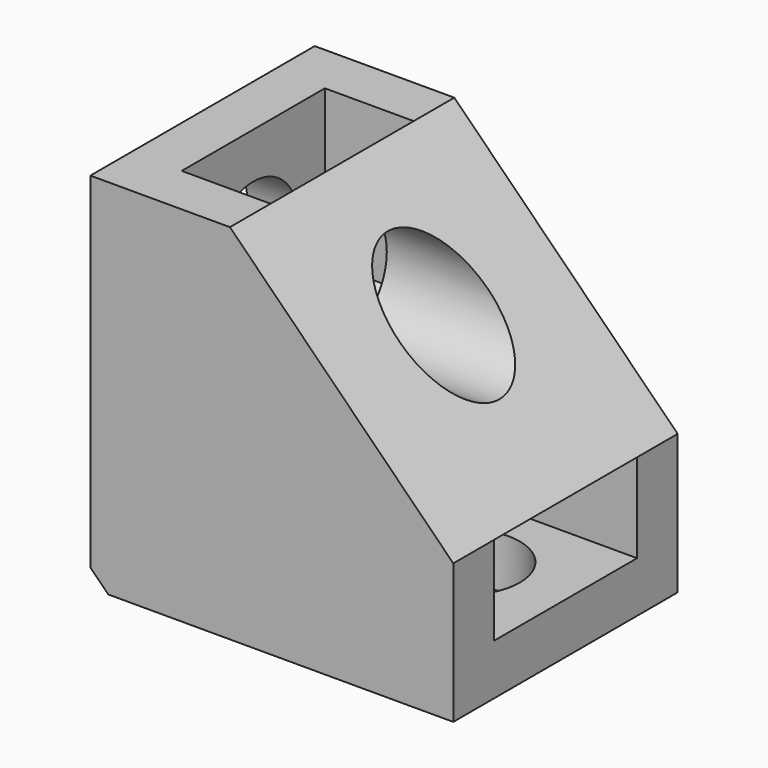
from build123d import *

# Parameters (mm, degrees)
PAD_DEPTH         = 1.75
PAD001_DEPTH      = 1.75
PAD002_DEPTH      = 5.525
SKETCH003_R       = 2.2
POCKET_DEPTH      = 2.001
POCKET_DEPTH_BACK = -12.301
SKETCH004_R       = 2.2
POCKET001_DEPTH   = 2.001


with BuildPart() as pad:
    # Sketch → Pad (new body, symmetric)
    with BuildSketch(Plane.XY):
        Polygon((2.03516, 3.525), (-2.03516, 3.525), (-4.070319, 0), (-2.03516, -3.525), (2.03516, -3.525), (4.070319, -3.525), (4.070319, 3.525), align=None)
    extrude(amount=PAD_DEPTH, both=True)


with BuildPart() as pad001:
    # Sketch001 → Pad001 (new body, symmetric)
    with BuildSketch(Plane.YZ.offset(-6.55)):
        Polygon((0, 2.479681), (3.525, 4.51484), (3.525, 8.58516), (3.525, 10.620319), (-3.525, 10.620319), (-3.525, 8.58516), (-3.525, 4.51484), align=None)
    extrude(amount=PAD001_DEPTH, both=True)


with BuildPart() as pocket001:
    # Sketch002 → Pad002 (new body, symmetric)
    with BuildSketch(Plane.XZ):
        Polygon((-10.3, 10.55), (-10.3, -3.042893), (-9.592893, -3.75), (4, -3.75), (4, 1.75), (-4.8, 10.55), align=None)
    extrude(amount=PAD002_DEPTH, both=True)

    # Cut: cut Pad001
    add(pad001.part, mode=Mode.SUBTRACT)

    # Cut001: cut Pad
    add(pad.part, mode=Mode.SUBTRACT)

    # Sketch003 → Pocket (cut, two sides)
    with BuildSketch(Plane.YZ.offset(-8.3)) as pocket_sk:
        with Locations((0, 6.55)):
            Circle(SKETCH003_R)
    extrude(amount=-POCKET_DEPTH, mode=Mode.SUBTRACT)
    extrude(pocket_sk.sketch, amount=-POCKET_DEPTH_BACK, mode=Mode.SUBTRACT)

    # Sketch004 → Pocket001 (cut, through all)
    with BuildSketch(Plane.XY.offset(-1.75)):
        Circle(SKETCH004_R)
    extrude(amount=-POCKET001_DEPTH, mode=Mode.SUBTRACT)


solid = pocket001.part
